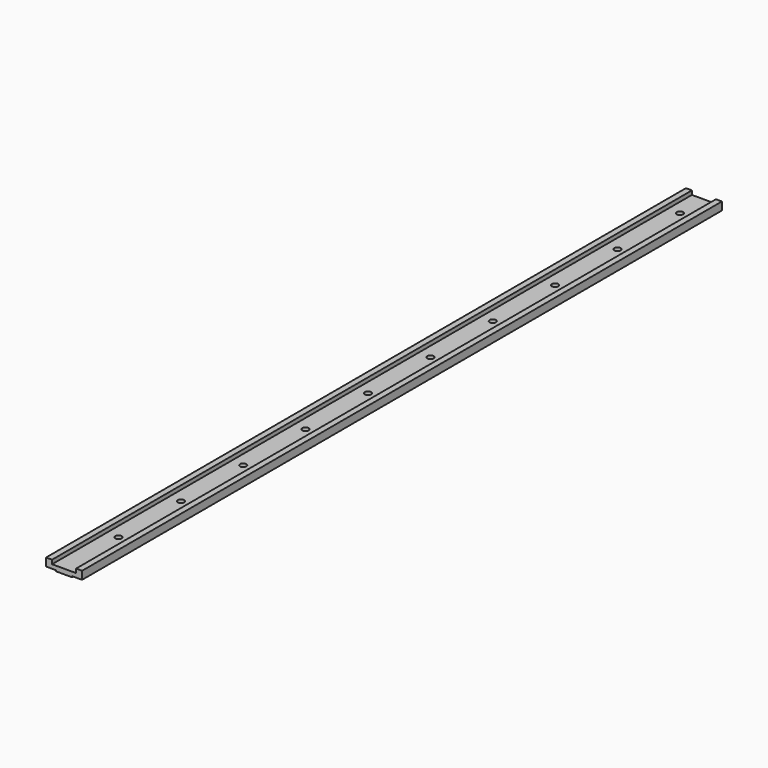
from build123d import *

# Parameters (mm, degrees)
F1_DEPTH = 400
F2_R     = 1.6
F3_DEPTH = 25


with BuildPart() as f1:
    # F0 (on Front) → F1 (new body)
    with BuildSketch(Plane.XZ):
        Polygon((6, 0), (0, 0), (-6, 0), (-6, 2), (-9, 2), (-9, -2), (-4, -2), (-4, -2.5), (0, -2.5), (4, -2.5), (4, -2), (9, -2), (9, 2), (6, 2), align=None)
    extrude(amount=F1_DEPTH)

    # F2 (on face) → F3 (cut)
    with BuildSketch(Plane.XY):
        with Locations((0, -15)):
            Circle(F2_R)
        with Locations((0, -54)):
            Circle(F2_R)
        with Locations((0, -93)):
            Circle(F2_R)
        with Locations((0, -132)):
            Circle(F2_R)
        with Locations((0, -171)):
            Circle(F2_R)
        with Locations((0, -210)):
            Circle(F2_R)
        with Locations((0, -249)):
            Circle(F2_R)
        with Locations((0, -288)):
            Circle(F2_R)
        with Locations((0, -327)):
            Circle(F2_R)
        with Locations((0, -366)):
            Circle(F2_R)
    extrude(amount=-F3_DEPTH, mode=Mode.SUBTRACT)


solid = f1.part
